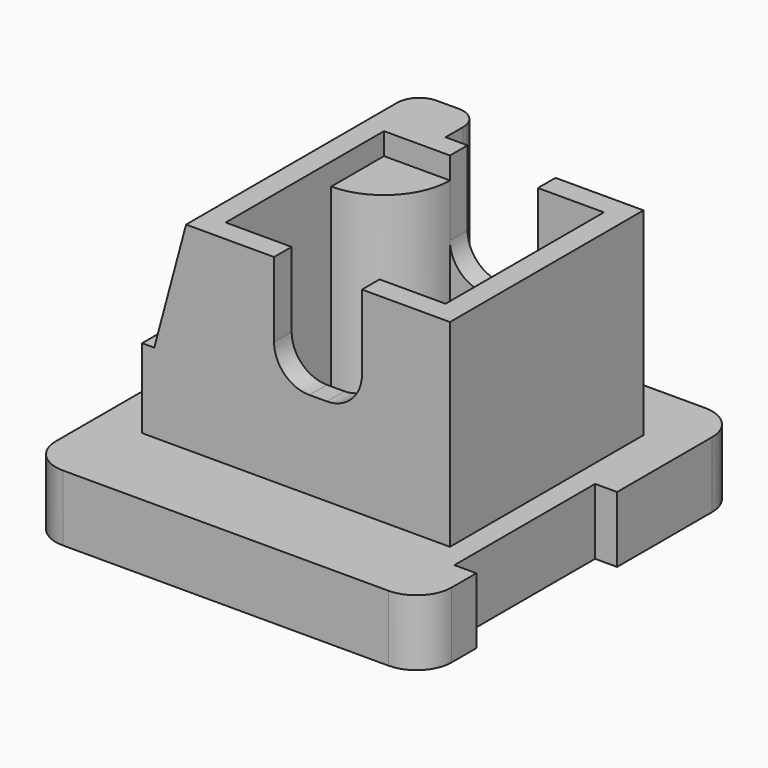
from build123d import *

# Parameters (mm, degrees)
F1_DEPTH  = 55
F2_R      = 8
F3_W      = 90
F3_H      = 90
F4_DEPTH  = 15
F5_R      = 8
F6_W      = 15
F6_H      = 10
F7_DEPTH  = 45
F8_R      = 5
F9_W      = 50
F9_H      = 45
F10_DEPTH = 50
F12_DEPTH = 45
F13_W     = 5
F13_H     = 40
F14_DEPTH = 15.001
F16_DEPTH = 5


with BuildPart() as f1:
    # F0 (on Front) → F1 (new body)
    with BuildSketch(Plane.XZ):
        Polygon((0, 18), (0, 0), (70, 0), (70, 45), (50, 45), (50, 20), (30, 20), (30, 45), (10, 45), (2.765372, 18), align=None)
    extrude(amount=-F1_DEPTH)

    # F2
    f2_edges = [f1.edges().sort_by_distance(p)[0] for p in [
        (30, 27.5, 20),
        (50, 27.5, 20),
    ]]
    fillet(f2_edges, radius=F2_R)

    # F3 (on face) → F4 (join)
    with BuildSketch(Plane(origin=(0, 0, 0), x_dir=(1, 0, 0), z_dir=(0, 0, -1))):
        with Locations((35, -25)):
            Rectangle(F3_W, F3_H)
    extrude(amount=F4_DEPTH)

    # F5
    f5_edges = [f1.edges().sort_by_distance(p)[0] for p in [
        (-10, 70, -7.5),
        (80, 70, -7.5),
        (-10, -20, -7.5),
        (80, -20, -7.5),
    ]]
    fillet(f5_edges, radius=F5_R)

    # F6 (on face) → F7 (join, through all)
    with BuildSketch(Plane.XY.offset(45)):
        with Locations((17.5, 60)):
            Rectangle(F6_W, F6_H)
    extrude(amount=-F7_DEPTH)

    # F8
    f8_edges = [f1.edges().sort_by_distance(p)[0] for p in [
        (25, 65, 22.5),
        (10, 65, 22.5),
    ]]
    fillet(f8_edges, radius=F8_R)

    # F9 (on face) → F10 (cut)
    with BuildSketch(Plane.XY.offset(45)):
        with Locations((40, 27.5)):
            Rectangle(F9_W, F9_H)
    extrude(amount=-F10_DEPTH, mode=Mode.SUBTRACT)

    # F11 (on face) → F12 (join)
    with BuildSketch(Plane.XY.offset(-5)):
        with BuildLine():
            Line((30, 50), (15, 50))
            Line((15, 50), (15, 35))
            ThreePointArc((15, 35), (25.606602, 39.393398), (30, 50))
        make_face()
    extrude(amount=F12_DEPTH)

    # F13 (on face) → F14 (cut, through all)
    with BuildSketch(Plane.XY):
        with Locations((-7.5, 35)):
            Rectangle(F13_W, F13_H)
        with Locations((77.5, 15)):
            Rectangle(F13_W, F13_H)
    extrude(amount=-F14_DEPTH, mode=Mode.SUBTRACT)

    # F15 (on face) → F16 (cut)
    with BuildSketch(Plane(origin=(0, 0, -15), x_dir=(1, 0, 0), z_dir=(0, 0, -1))):
        Polygon((0, 5), (60, -65), (60, 5), align=None)
    extrude(amount=-F16_DEPTH, mode=Mode.SUBTRACT)


solid = f1.part
